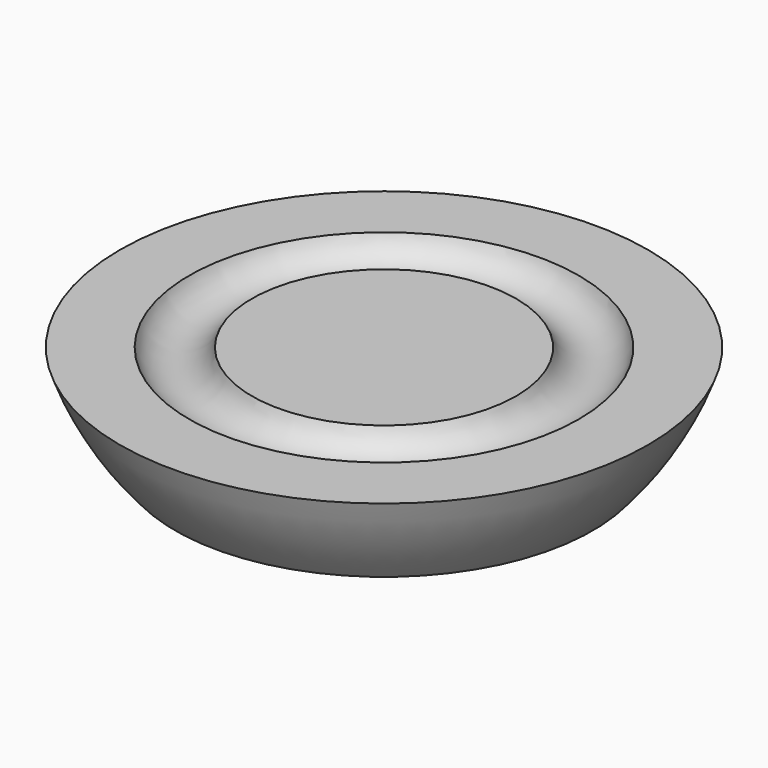
from build123d import *

# Parameters (mm, degrees)
TORUS_R = 7


with BuildPart() as torus:
    # Torus → Torus (revolve)
    with BuildSketch(Plane(origin=(0, 0, -18), x_dir=(1, 0, 0), z_dir=(0, -1, 0))):
        with Locations((35, 0)):
            Circle(TORUS_R)
    revolve(axis=Axis((0, 0, -18), (0, 0, 1)))


with BuildPart() as cut:
    # Sketch → Revolution (revolve)
    with BuildSketch(Plane.XZ):
        with BuildLine():
            ThreePointArc((-56.568542, -20), (-51.622777, -30.579224), (-44.72136, -40))
            ThreePointArc((-44.72136, -40), (-22.912878, -47.469508), (0, -50))
            Line((0, -20), (0, -50))
            Line((-56.568542, -20), (0, -20))
        make_face()
    revolve(axis=Axis((0, 0, 0), (0, 0, 1)))

    # Cut: cut Torus
    add(torus.part, mode=Mode.SUBTRACT)


solid = cut.part
